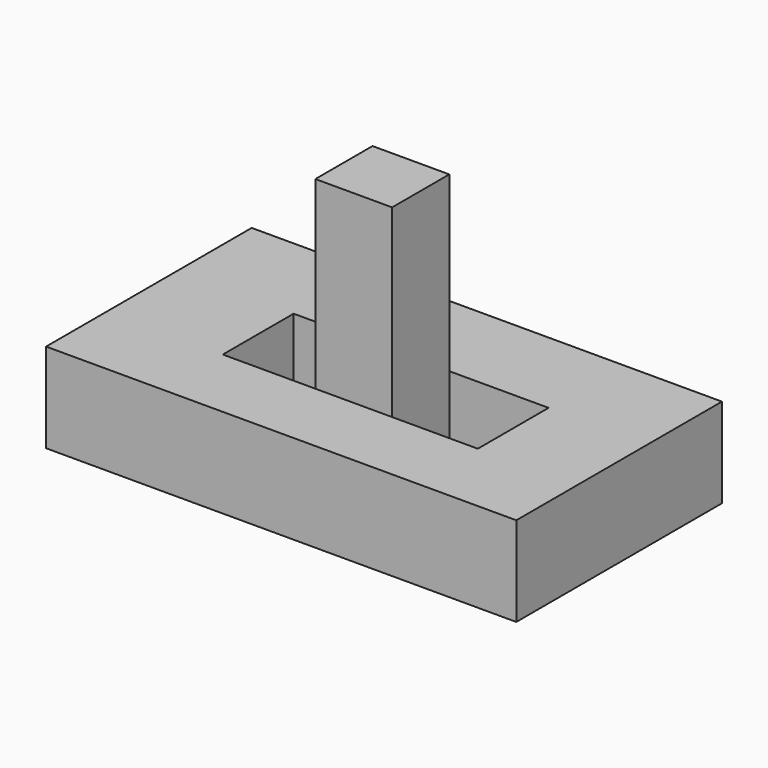
from build123d import *

# Parameters (mm, degrees)
F0_W     = 133.407533
F0_H     = 72.915666
F0_W_2   = 72.340451
F0_H_2   = 25.107652
F1_DEPTH = 25.4
F2_W     = 21.769044
F2_H     = 20.267747
F3_DEPTH = 76.2


with BuildPart() as f1:
    # F0 (on Top) → F1 (new body)
    with BuildSketch(Plane.XY):
        with Locations((-12.39857, 36.457833)):
            Rectangle(F0_W, F0_H)
        with Locations((-9.972829, 34.028918)):
            Rectangle(F0_W_2, F0_H_2, mode=Mode.SUBTRACT)
    extrude(amount=F1_DEPTH)


with BuildPart() as f3:
    # F2 (on Top) → F3 (new body)
    with BuildSketch(Plane.XY):
        with Locations((-10.884522, 33.971795)):
            Rectangle(F2_W, F2_H)
    extrude(amount=F3_DEPTH)


solid = Compound([f1.part, f3.part])
